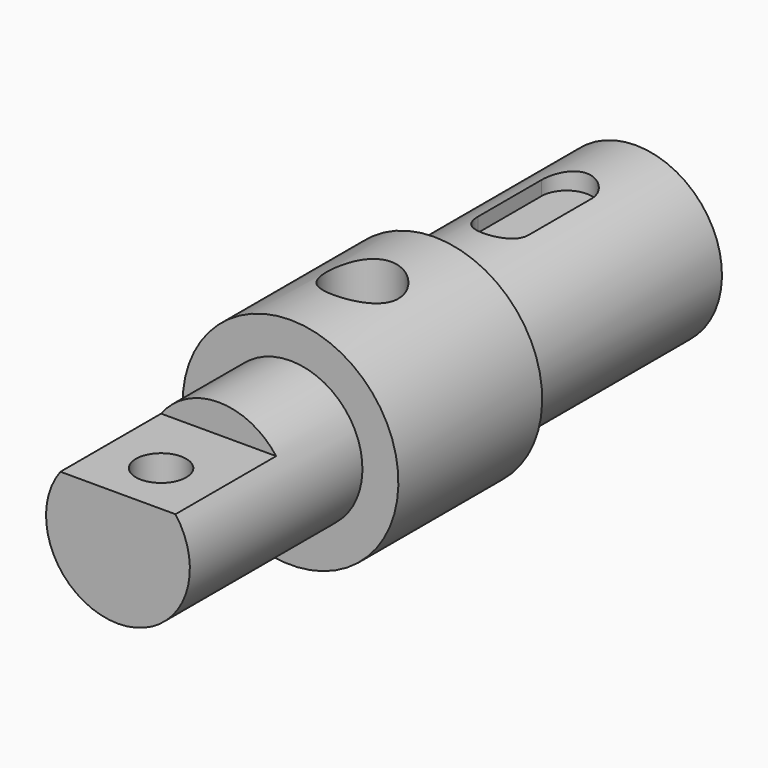
from build123d import *

# Parameters (mm, degrees)
POCKET_DEPTH         = 35
SKETCH003_R          = 10
SKETCH003_R_2        = 7
POCKET001_DEPTH      = 30.001
POCKET001_DEPTH_BACK = -30.001
POCKET002_DEPTH      = 5


with BuildPart() as part:
    # Sketch → Revolution (revolve)
    with BuildSketch(Plane.YZ):
        Polygon((-25, 20), (-85, 20), (-85, 0), (95, 0), (95, 24), (25, 24), (25, 30), (-25, 30), align=None)
    revolve(axis=Axis((0, 0, 0), (0, 1, 0)))

    # Sketch002 (on Face2 of Revolution) → Pocket (cut)
    with BuildSketch(Plane(origin=(0, -85, 0), x_dir=(0, 0, -1), z_dir=(0, -1, 0))):
        with BuildLine():
            Line((-12, -16), (-12, 16))
            ThreePointArc((-12, 16), (-20, 0), (-12, -16))
        make_face()
    extrude(amount=-POCKET_DEPTH, mode=Mode.SUBTRACT)

    # Sketch003 → Pocket001 (cut, two sides)
    with BuildSketch(Plane.XY) as pocket001_sk:
        Circle(SKETCH003_R)
        with Locations((0, -70)):
            Circle(SKETCH003_R_2)
    extrude(amount=-POCKET001_DEPTH, mode=Mode.SUBTRACT)
    extrude(pocket001_sk.sketch, amount=-POCKET001_DEPTH_BACK, mode=Mode.SUBTRACT)

    # Sketch004 (on DatumPlane) → Pocket002 (cut)
    with BuildSketch(Plane.XY.offset(19)):
        with BuildLine():
            ThreePointArc((7, 71), (0, 78), (-7, 71))
            Line((-7, 71), (-7, 49))
            ThreePointArc((-7, 49), (0, 42), (7, 49))
            Line((7, 71), (7, 49))
        make_face()
    extrude(amount=POCKET002_DEPTH, mode=Mode.SUBTRACT)


solid = part.part
